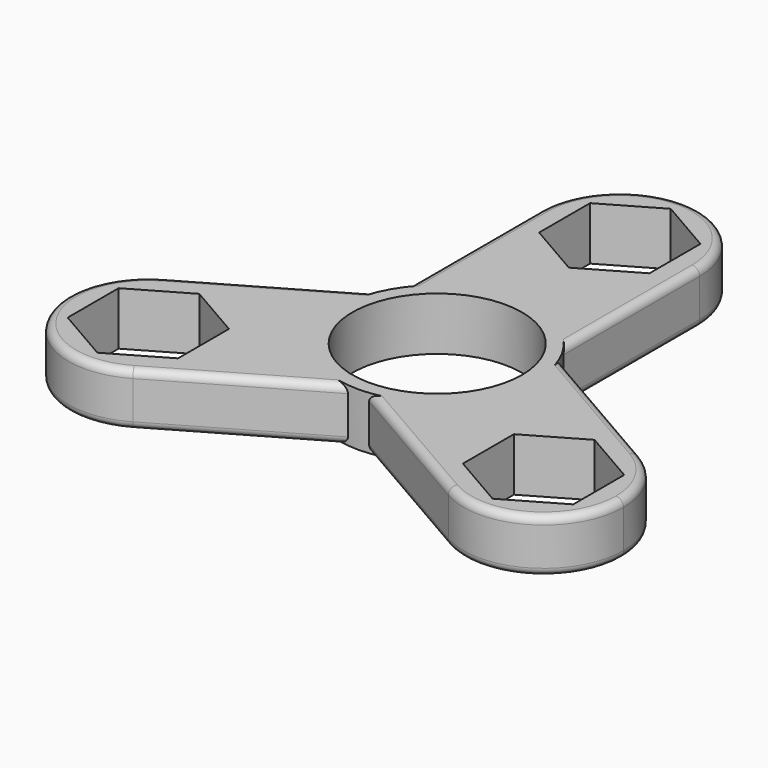
from build123d import *

# Parameters (mm, degrees)
F0_R     = 11.15
F1_DEPTH = 7
F2_R     = 1


with BuildPart() as f1:
    # F0 (on Top) → F1 (new body)
    with BuildSketch(Plane.XY):
        with BuildLine():
            ThreePointArc((1.3879590237, -12.9256941689), (9.6706635581, -8.6878228772), (13, 0))
            ThreePointArc((13, 0), (12.7189517514, 2.6885435362), (11.8879590237, 5.2608393105))
            ThreePointArc((11.8879590237, 5.2608393105), (11.2583302492, 6.5), (10.5, 7.6648548584))
            ThreePointArc((10.5, 7.6648548584), (0, 13), (-10.5, 7.6648548584))
            ThreePointArc((-10.5, 7.6648548584), (-11.2583302492, 6.5), (-11.8879590237, 5.2608393105))
            ThreePointArc((-11.8879590237, 5.2608393105), (-11.2583302492, -6.5), (-1.3879590237, -12.9256941689))
            ThreePointArc((-1.3879590237, -12.9256941689), (0, -13), (1.3879590237, -12.9256941689))
        make_face()
        Circle(F0_R, mode=Mode.SUBTRACT)
        with BuildLine():
            ThreePointArc((11.8879590237, 5.2608393105), (12.7189517514, 2.6885435362), (13, 0))
            ThreePointArc((13, 0), (9.6706635581, -8.6878228772), (1.3879590237, -12.9256941689))
            Line((1.3879590237, -12.9256941689), (20.7307621135, -24.0932667397))
            ThreePointArc((20.7307621135, -24.0932667397), (16.8874953738, -9.75), (31.2307621135, -5.9067332603))
            Line((31.2307621135, -5.9067332603), (11.8879590237, 5.2608393105))
        make_face()
        with BuildLine():
            ThreePointArc((-10.5, 7.6648548584), (0, 13), (10.5, 7.6648548584))
            Line((10.5, 7.6648548584), (10.5, 30))
            ThreePointArc((10.5, 30), (0, 19.5), (-10.5, 30))
            Line((-10.5, 30), (-10.5, 7.6648548584))
        make_face()
        with BuildLine():
            ThreePointArc((36.4807621135, -15), (35.0740288533, -9.75), (31.2307621135, -5.9067332603))
            ThreePointArc((31.2307621135, -5.9067332603), (16.8874953738, -9.75), (20.7307621135, -24.0932667397))
            ThreePointArc((20.7307621135, -24.0932667397), (31.2307621135, -24.0932667397), (36.4807621135, -15))
        make_face()
        Polygon((33.2337248702, -10.8125), (33.2337248702, -19.1875), (25.9807621135, -23.375), (18.7277993568, -19.1875), (18.7277993568, -10.8125), (25.9807621135, -6.625), align=None, mode=Mode.SUBTRACT)
        with BuildLine():
            Line((-20.7307621135, -24.0932667397), (-1.3879590237, -12.9256941689))
            ThreePointArc((-1.3879590237, -12.9256941689), (-11.2583302492, -6.5), (-11.8879590237, 5.2608393105))
            Line((-11.8879590237, 5.2608393105), (-31.2307621135, -5.9067332603))
            ThreePointArc((-31.2307621135, -5.9067332603), (-20.7307621135, -5.9067332603), (-15.4807621135, -15))
            ThreePointArc((-15.4807621135, -15), (-16.8874953738, -20.25), (-20.7307621135, -24.0932667397))
        make_face()
        with BuildLine():
            ThreePointArc((-10.5, 30), (0, 19.5), (10.5, 30))
            ThreePointArc((10.5, 30), (0, 40.5), (-10.5, 30))
        make_face()
        Polygon((0, 38.375), (7.2529627567, 34.1875), (7.2529627567, 25.8125), (0, 21.625), (-7.2529627567, 25.8125), (-7.2529627567, 34.1875), align=None, mode=Mode.SUBTRACT)
        with BuildLine():
            ThreePointArc((-31.2307621135, -5.9067332603), (-35.0740288533, -20.25), (-20.7307621135, -24.0932667397))
            ThreePointArc((-20.7307621135, -24.0932667397), (-16.8874953738, -20.25), (-15.4807621135, -15))
            ThreePointArc((-15.4807621135, -15), (-20.7307621135, -5.9067332603), (-31.2307621135, -5.9067332603))
        make_face()
        Polygon((-25.9807621135, -23.375), (-33.2337248702, -19.1875), (-33.2337248702, -10.8125), (-25.9807621135, -6.625), (-18.7277993568, -10.8125), (-18.7277993568, -19.1875), align=None, mode=Mode.SUBTRACT)
    extrude(amount=F1_DEPTH)

    # F2
    f2_edges = [f1.edges().sort_by_distance(p)[0] for p in [
        (-21.559361, -0.322947, 7),
        (11.059361, -18.50948, 7),
        (21.559361, -0.322947, 7),
        (10.5, 18.832427, 7),
        (-10.5, 18.832427, 7),
        (-11.059361, -18.50948, 7),
        (11.059361, -18.50948, 0),
        (-11.059361, -18.50948, 0),
        (-10.5, 18.832427, 0),
    ]]
    fillet(f2_edges, radius=F2_R)


solid = f1.part
